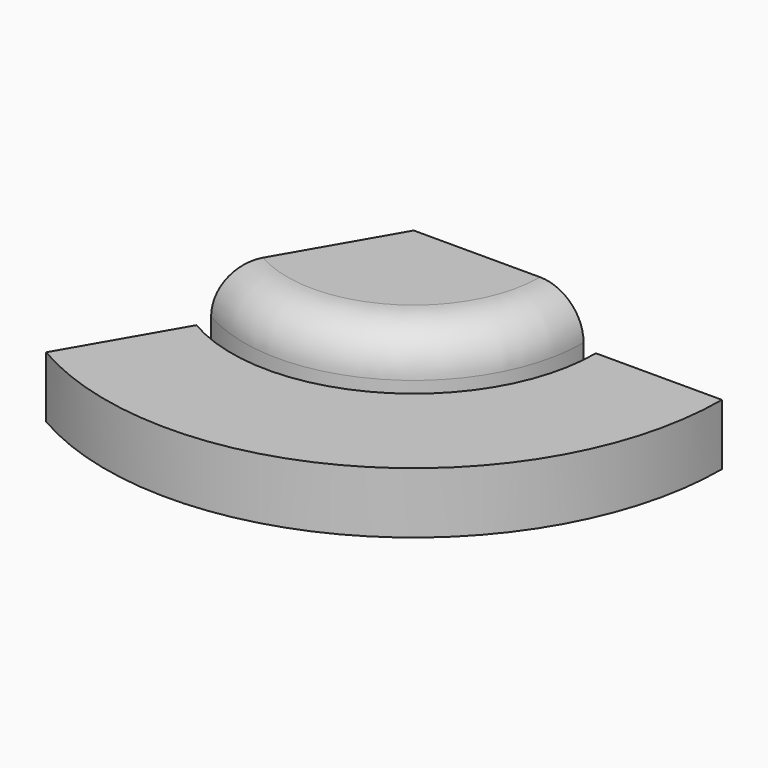
from build123d import *

# Parameters (mm, degrees)
F1_ANGLE = 120
F0_W     = 73.4693109989
F0_H     = 35.6082208455


with BuildPart() as f1:
    # F0 (on Front) → F1 (revolve)
    with BuildSketch(Plane.XZ):
        with BuildLine():
            Line((41.9007050037, 48.1907352805), (-31.7351222038, 48.1907352805))
            Line((-31.7351222038, 48.1907352805), (-31.7351222038, -39.1657203436))
            Line((-31.7351222038, -39.1657203436), (41.9007050037, -39.1657203436))
            ThreePointArc((41.9007050037, -39.1657203436), (59.8612172459, -31.7262325857), (67.3007050037, -13.7657203436))
            Line((67.3007050037, -13.7657203436), (67.3007050037, 22.7907352805))
            ThreePointArc((67.3007050037, 22.7907352805), (59.8612172459, 40.7512475227), (41.9007050037, 48.1907352805))
        make_face()
    revolve(axis=Axis((-31.7351222038, 0, 4.5125074685), (0, 0, -1)), revolution_arc=F1_ANGLE)


with BuildPart() as f1b:
    # F0 (on Front) → F1, piece 2 (revolve)
    with BuildSketch(Plane.XZ):
        with Locations((111.2226247787, 1.9099842757)):
            Rectangle(F0_W, F0_H)
    revolve(axis=Axis((-31.7351222038, 0, 4.5125074685), (0, 0, -1)), revolution_arc=F1_ANGLE)


solid = Compound([f1.part, f1b.part])
